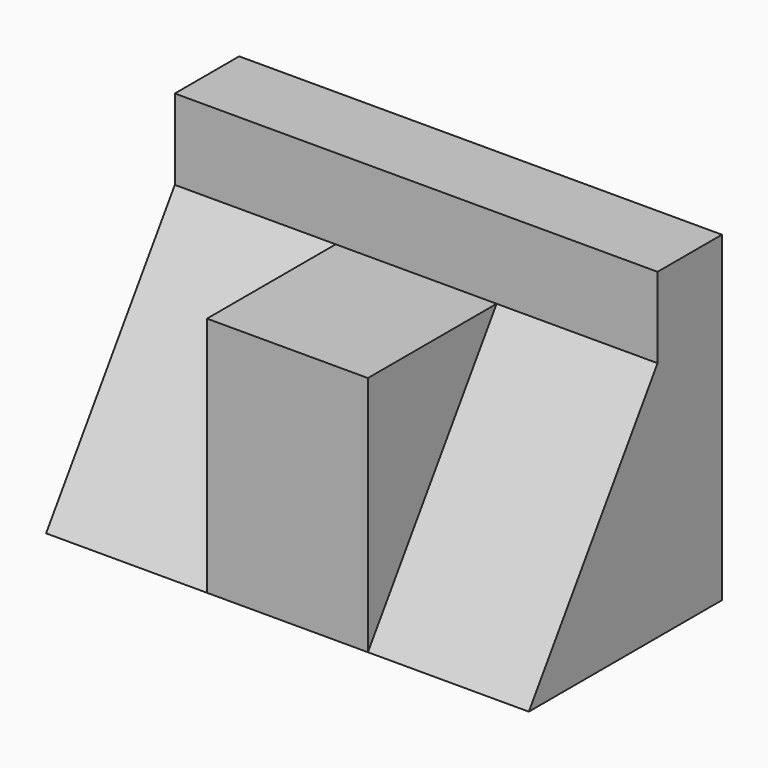
from build123d import *

# Parameters (mm, degrees)
F0_W     = 152.4
F0_H     = 76.2
F1_DEPTH = 101.6
F4_DEPTH = 50.8
F5_DEPTH = 50.8
F7_DEPTH = 50.8


with BuildPart() as f1:
    # F0 (on Top) → F1 (new body)
    with BuildSketch(Plane.XY):
        with Locations((6.801184, -21.443818)):
            Rectangle(F0_W, F0_H)
    extrude(amount=F1_DEPTH)

    # F3 (on face) → F4 (cut)
    with BuildSketch(Plane.XZ.offset(59.543818)):
        Polygon((-69.398816, 101.6), (-69.398816, 76.2), (-18.598816, 76.2), (32.201184, 76.2), (83.001184, 76.2), (83.001184, 101.6), align=None)
    extrude(amount=-F4_DEPTH, mode=Mode.SUBTRACT)

    # F2 (on face) → F5 (cut)
    with BuildSketch(Plane.YZ.offset(83.001184)):
        Polygon((-59.543818, 0), (-8.743818, 76.2), (-8.743818, 101.6), (-59.543818, 101.6), align=None)
    extrude(amount=-F5_DEPTH, mode=Mode.SUBTRACT)

    # F6 (on face) → F7 (cut)
    with BuildSketch(Plane(origin=(-69.398816, 0, 0), x_dir=(0, -1, 0), z_dir=(-1, 0, 0))):
        Polygon((59.543818, 76.2), (8.743818, 76.2), (59.543818, 0), align=None)
    extrude(amount=-F7_DEPTH, mode=Mode.SUBTRACT)


solid = f1.part
